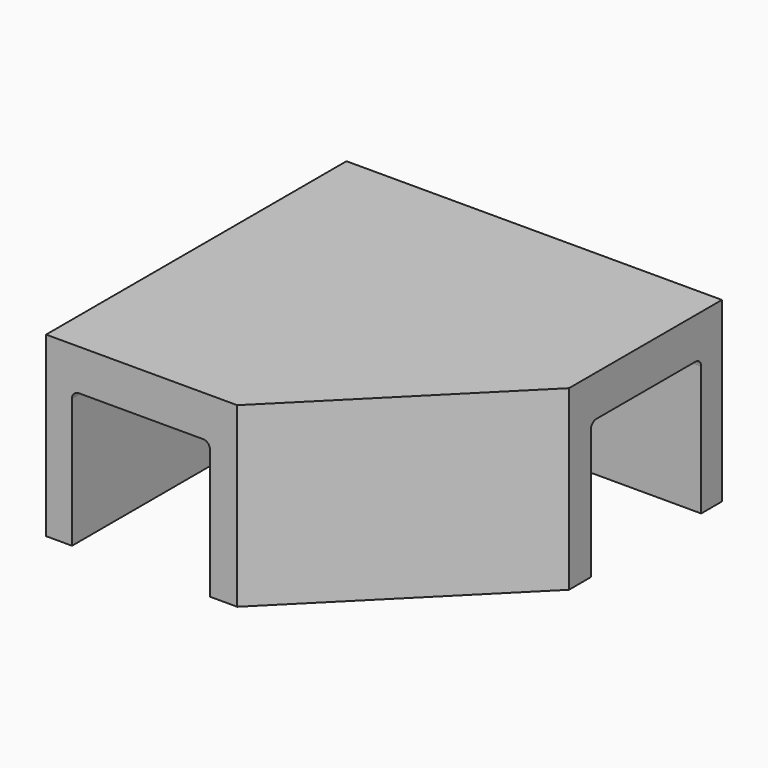
from build123d import *

# Parameters (mm, degrees)
F1_DEPTH = 26
F3_DEPTH = 20
F4_R     = 1


with BuildPart() as f1:
    # F0 (on Top) → F1 (new body)
    with BuildSketch(Plane.XY):
        Polygon((0, 0), (0, -55), (28, -55), (55, -28), (55, 0), align=None)
    extrude(amount=-F1_DEPTH)

    # F2 (on face) → F3 (cut)
    with BuildSketch(Plane(origin=(0, 0, -26), x_dir=(1, 0, 0), z_dir=(0, 0, -1))):
        Polygon((24, 55), (3.8, 55), (3.8, 3.8), (55, 3.8), (55, 24), (24, 24), align=None)
    extrude(amount=-F3_DEPTH, mode=Mode.SUBTRACT)

    # F4
    f4_edges = [f1.edges().sort_by_distance(p)[0] for p in [
        (3.8, -3.8, -16),
        (3.8, -29.4, -6),
        (29.4, -3.8, -6),
        (24, -39.5, -6),
        (39.5, -24, -6),
        (24, -24, -16),
    ]]
    fillet(f4_edges, radius=F4_R)


solid = f1.part
